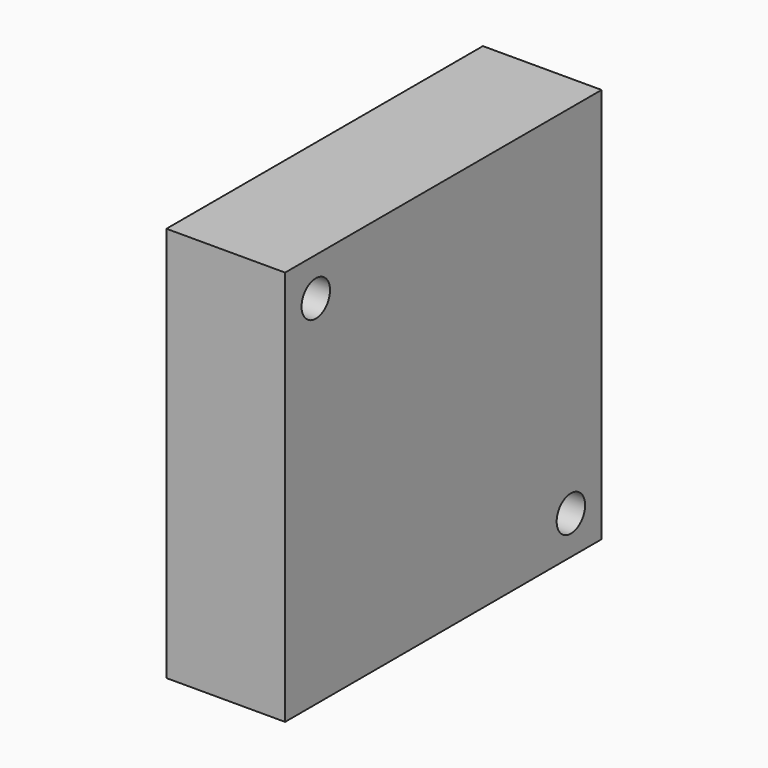
from build123d import *

# Parameters (mm, degrees)
F0_W     = 50
F0_H     = 50
F0_R     = 2.25
F1_DEPTH = 15


with BuildPart() as f1:
    # F0 (on Right) → F1 (new body)
    with BuildSketch(Plane.YZ):
        Rectangle(F0_W, F0_H)
        with Locations((20.152543, -20.152543)):
            Circle(F0_R, mode=Mode.SUBTRACT)
        with Locations((-20.152543, 20.152543)):
            Circle(F0_R, mode=Mode.SUBTRACT)
    extrude(amount=F1_DEPTH)


solid = f1.part
